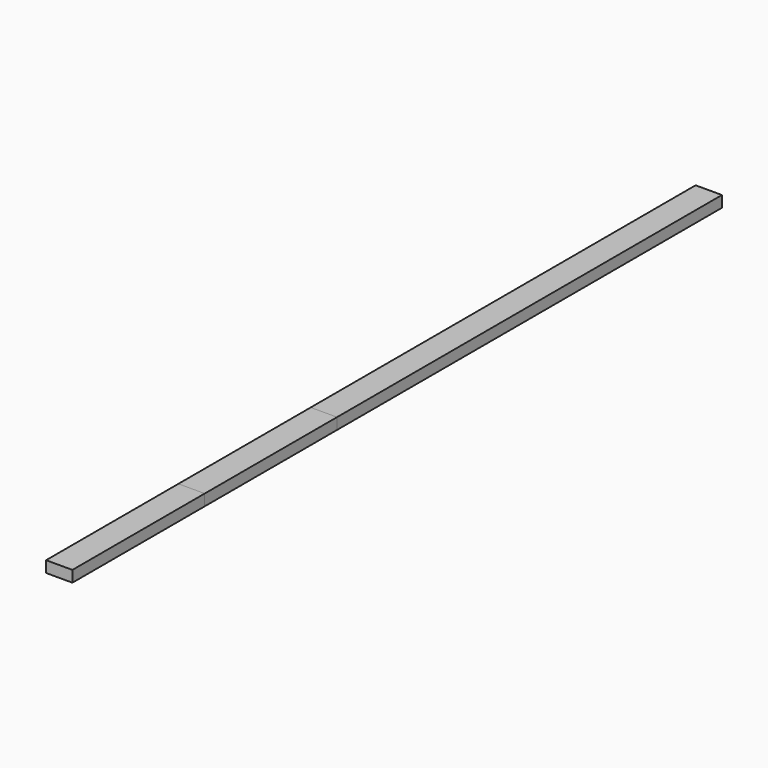
from build123d import *

# Parameters (mm, degrees)
F0_W     = 88.9
F0_H     = 38.1
F1_DEPTH = 1625.6
F2_DEPTH = 1117.6
F3_DEPTH = 558.8


with BuildPart() as f1:
    # F0 (on Front) → F1 (new body)
    with BuildSketch(Plane.XZ):
        Rectangle(F0_W, F0_H)
    extrude(amount=-F1_DEPTH)


with BuildPart() as f2:
    # F0 (on Front) → F2 (new body)
    with BuildSketch(Plane.XZ):
        Rectangle(F0_W, F0_H)
    extrude(amount=F2_DEPTH)


with BuildPart() as f3:
    # F0 (on Front) → F3 (new body)
    with BuildSketch(Plane.XZ):
        Rectangle(F0_W, F0_H)
    extrude(amount=F3_DEPTH)


solid = Compound([f1.part, f2.part, f3.part])
